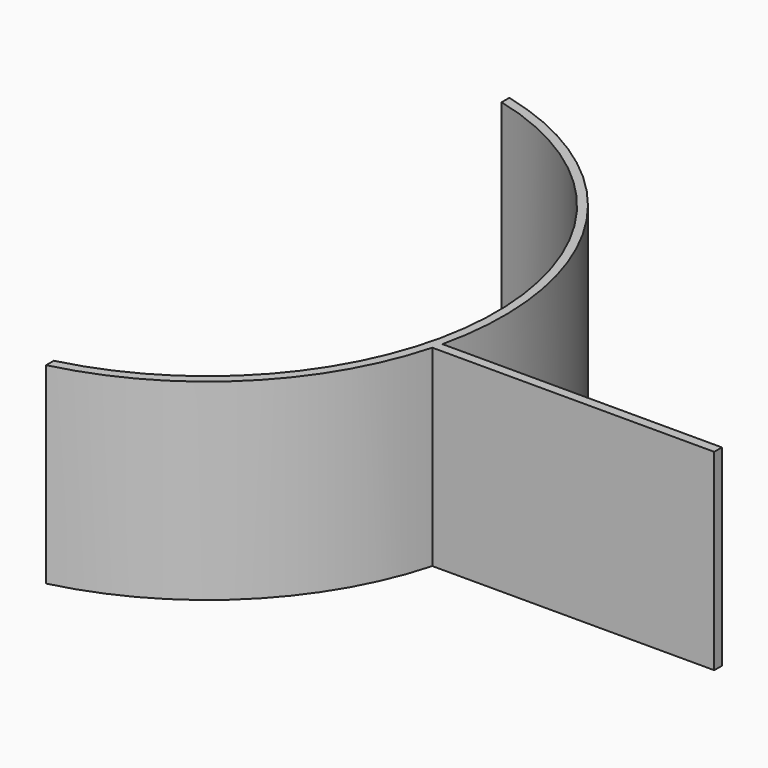
from build123d import *

# Parameters (mm, degrees)
F1_DEPTH = 100


with BuildPart() as f1:
    # F0 (on Top) → F1 (new body)
    with BuildSketch(Plane.XY):
        with BuildLine():
            Line((152.842064, -34.568323), (299.473815, -34.568323))
            Line((299.473815, -34.568323), (299.473815, -29.568323))
            Line((299.473815, -29.568323), (154.109696, -29.568323))
            ThreePointArc((154.109696, -29.568323), (135.118218, 86.86006), (39.976107, 156.604046))
            Line((39.976107, 156.604046), (39.976107, 151.604046))
            ThreePointArc((39.976107, 151.604046), (153.551571, 6.017862), (39.976107, -139.568323))
            Line((39.976107, -139.568323), (39.976107, -144.568323))
            ThreePointArc((39.976107, -144.568323), (111.459598, -105.010963), (152.842064, -34.568323))
        make_face()
    extrude(amount=F1_DEPTH)


solid = f1.part
